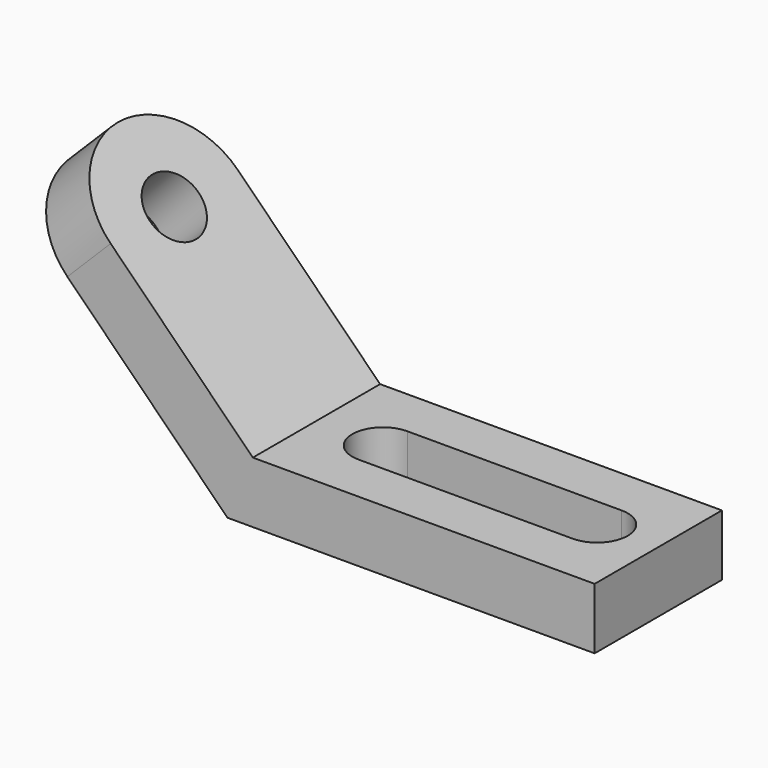
from build123d import *

# Parameters (mm, degrees)
F1_DEPTH = 26
F3_DEPTH = 20.001
F4_R     = 10
F5_DEPTH = 70.001


with BuildPart() as f1:
    # F0 (on Front) → F1 (new body, symmetric)
    with BuildSketch(Plane.XZ):
        Polygon((-70.7106781187, 70.7106781187), (0, 0), (120, 0), (120, 20), (8.2842712475, 20), (-56.5685424949, 84.8528137424), align=None)
    extrude(amount=F1_DEPTH, both=True)

    # F2 (on face) → F3 (cut, through all)
    with BuildSketch(Plane.XY.offset(20)):
        with BuildLine():
            Line((30, -10), (100, -10))
            ThreePointArc((100, -10), (110, 0), (100, 10))
            Line((100, 10), (30, 10))
            ThreePointArc((30, 10), (20, 0), (30, -10))
        make_face()
    extrude(amount=-F3_DEPTH, mode=Mode.SUBTRACT)

    # F4 (on face) → F5 (cut, through all)
    with BuildSketch(Plane(origin=(14.1421356237, 0, 14.1421356237), x_dir=(0.7071067812, 0, -0.7071067812), z_dir=(0.7071067812, 0, 0.7071067812))):
        with Locations((-74, 0)):
            Circle(F4_R)
        with BuildLine():
            ThreePointArc((-74, -26), (-92.3847763543, -18.3847762674), (-100, 1.228e-07))
            Line((-100, 1.228e-07), (-100, -26))
            Line((-100, -26), (-74, -26))
        make_face()
        with BuildLine():
            ThreePointArc((-100, 1.228e-07), (-92.3847762674, 18.3847763543), (-74, 26))
            Line((-74, 26), (-100, 26))
            Line((-100, 26), (-100, 1.228e-07))
        make_face()
    extrude(amount=-F5_DEPTH, mode=Mode.SUBTRACT)


solid = f1.part
